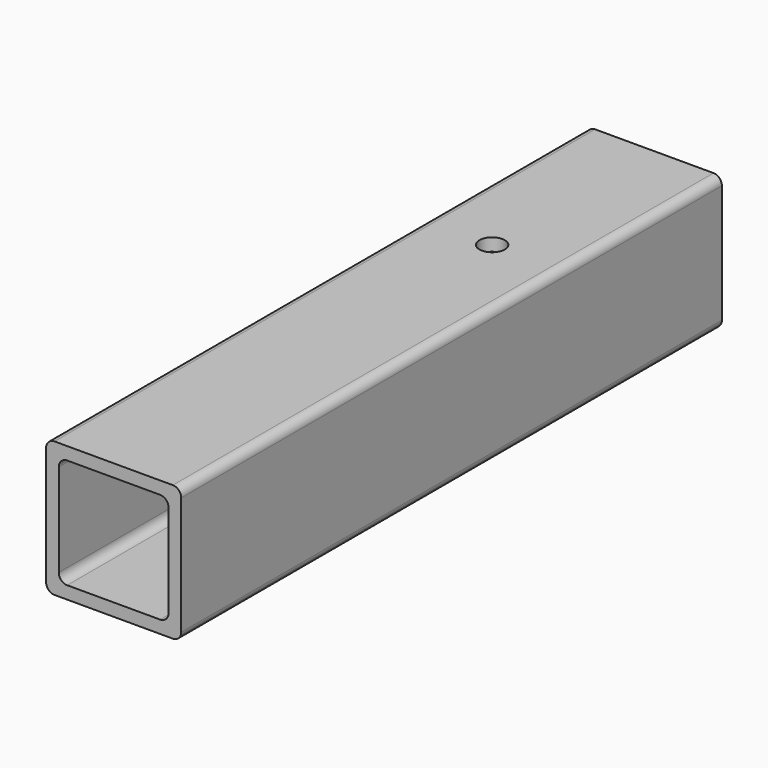
from build123d import *

# Parameters (mm, degrees)
F3_DEPTH = 254
F2_D     = 9.525
F2_DEPTH = 25.401


with BuildPart() as f3:
    # F0 (on Front) → F3 (new body)
    with BuildSketch(Plane.XZ):
        with BuildLine():
            Line((-22.225, -25.4), (22.225, -25.4))
            ThreePointArc((22.225, -25.4), (24.4700640303, -24.4700640303), (25.4, -22.225))
            Line((25.4, -22.225), (25.4, 22.225))
            ThreePointArc((25.4, 22.225), (24.4700640303, 24.4700640303), (22.225, 25.4))
            Line((22.225, 25.4), (-22.225, 25.4))
            ThreePointArc((-22.225, 25.4), (-24.4700640303, 24.4700640303), (-25.4, 22.225))
            Line((-25.4, 22.225), (-25.4, -22.225))
            ThreePointArc((-25.4, -22.225), (-24.4700640303, -24.4700640303), (-22.225, -25.4))
        make_face()
        with BuildLine():
            ThreePointArc((20.6375, -17.4625), (19.7075640303, -19.7075640303), (17.4625, -20.6375))
            Line((17.4625, -20.6375), (-17.4625, -20.6375))
            ThreePointArc((-17.4625, -20.6375), (-19.7075640303, -19.7075640303), (-20.6375, -17.4625))
            Line((-20.6375, -17.4625), (-20.6375, 17.4625))
            ThreePointArc((-20.6375, 17.4625), (-19.7075640303, 19.7075640303), (-17.4625, 20.6375))
            Line((-17.4625, 20.6375), (17.4625, 20.6375))
            ThreePointArc((17.4625, 20.6375), (19.7075640303, 19.7075640303), (20.6375, 17.4625))
            Line((20.6375, 17.4625), (20.6375, -17.4625))
        make_face(mode=Mode.SUBTRACT)
    extrude(amount=F3_DEPTH)

    # F2 (through all, one way)
    with BuildSketch(Plane(origin=(0, 0, 0), x_dir=(1, 0, 0), z_dir=(0, 0, -1))):
        with Locations((0, 76.2)):
            Circle(F2_D / 2)
    extrude(amount=-F2_DEPTH, mode=Mode.SUBTRACT)


solid = f3.part
